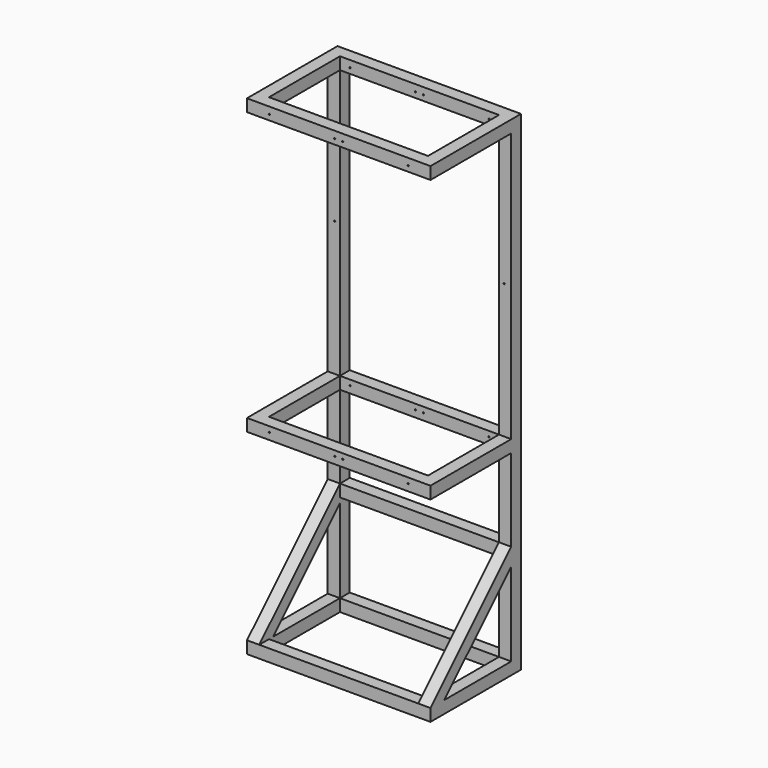
from build123d import *

# Parameters (mm, degrees)
F0_W     = 762
F0_H     = 2032
F1_DEPTH = 469.9
F2_W     = 419.1
F2_H     = 1117.6
F3_DEPTH = 762
F4_W     = 660.4
F4_H     = 368.3
F5_DEPTH = 2133.6
F6_W     = 660.4
F6_H     = 1117.6
F6_H_2   = 342.9
F6_H_3   = 368.3
F7_DEPTH = 50.801
F8_W     = 660.4
F8_H     = 50.8
F9_DEPTH = 50.8
F11_D    = 5.1054


with BuildPart() as f1:
    # F0 (on Front) → F1 (new body)
    with BuildSketch(Plane.XZ):
        with Locations((381, 1016)):
            Rectangle(F0_W, F0_H)
    extrude(amount=F1_DEPTH)

    # F2 (on face) → F3 (cut)
    with BuildSketch(Plane.YZ.offset(762)):
        with Locations((-260.35, 1422.4)):
            Rectangle(F2_W, F2_H)
        Polygon((-50.8, 50.8), (-50.8, 398.0579510314), (-398.0579510314, 50.8), align=None)
        Polygon((-50.8, 812.8), (-469.9, 812.8), (-469.9, 50.8), (-50.8, 469.9), align=None)
    extrude(amount=-F3_DEPTH, mode=Mode.SUBTRACT)

    # F4 (on face) → F5 (cut)
    with BuildSketch(Plane.XY.offset(2032)):
        with Locations((381, -234.95)):
            Rectangle(F4_W, F4_H)
    extrude(amount=-F5_DEPTH, mode=Mode.SUBTRACT)

    # F6 (on face) → F7 (cut, through all)
    with BuildSketch(Plane.XZ.offset(50.8)):
        with Locations((381, 1422.4)):
            Rectangle(F6_W, F6_H)
        with Locations((381, 641.35)):
            Rectangle(F6_W, F6_H_2)
        with Locations((381, 234.95)):
            Rectangle(F6_W, F6_H_3)
    extrude(amount=-F7_DEPTH, mode=Mode.SUBTRACT)

    # F8 (on face) → F9 (cut)
    with BuildSketch(Plane.XZ.offset(469.9)):
        with Locations((381, 76.2)):
            Rectangle(F8_W, F8_H)
    extrude(amount=-F9_DEPTH, mode=Mode.SUBTRACT)

    # F11 (through all)
    with Locations(Plane(origin=(0, 0, 0), x_dir=(-1, 0, 0), z_dir=(0, 1, 0))):
        with Locations((-397.4977839421, 2003.425), (-364.5022160579, 2003.425), (-92.6977839421, 2003.425), (-29.047275902, 1422.4), (-732.952724098, 1422.4), (-669.3022160579, 841.375), (-397.4977839421, 841.375), (-364.5022160579, 841.375), (-92.6977839421, 841.375), (-669.3022160579, 2003.425)):
            Hole(F11_D / 2)


solid = f1.part
